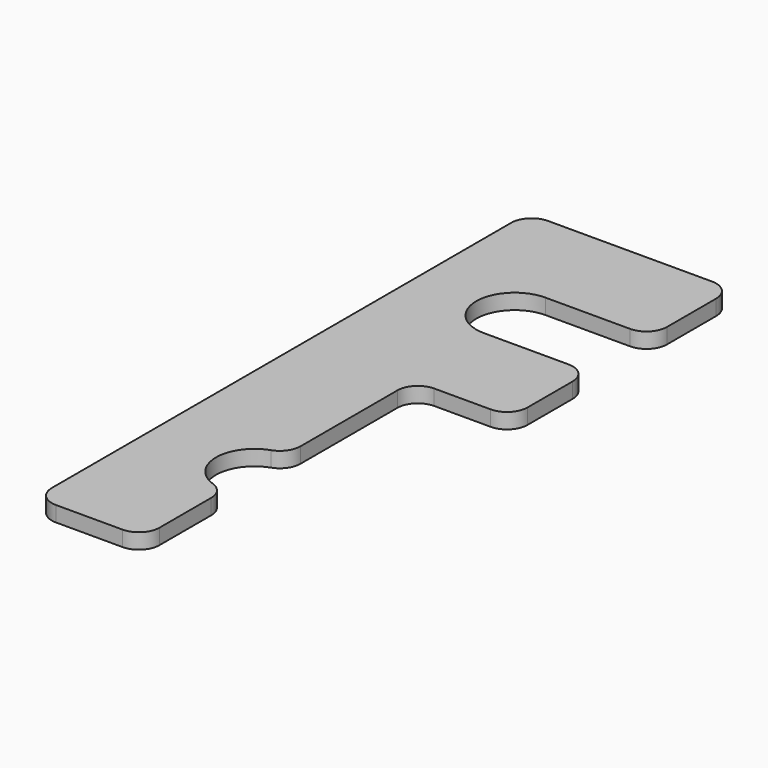
from build123d import *

# Parameters (mm, degrees)
F1_DEPTH = 3.81
F2_W     = 23.2185392497
F2_H     = 19.05
F3_DEPTH = 25.4
F4_R     = 5.08


with BuildPart() as f1:
    # F0 (on Top) → F1 (new body)
    with BuildSketch(Plane.XY):
        with BuildLine():
            Line((18.5659871323, 88.1776532905), (-32.2340128677, 88.1776532905))
            Line((-32.2340128677, 88.1776532905), (-32.2340128677, -64.2223467095))
            Line((-32.2340128677, -64.2223467095), (-5.5640128677, -64.2223467095))
            Line((-5.5640128677, -64.2223467095), (-5.5640128677, -38.8223467095))
            Line((-5.5640128677, -38.8223467095), (-5.9028261468, -38.8223467095))
            ThreePointArc((-5.9028261468, -38.8223467095), (-15.4278261468, -29.2973467095), (-5.9028261468, -19.7723467095))
            Line((-5.9028261468, -19.7723467095), (-5.5640128677, -19.7723467095))
            Line((-5.5640128677, -19.7723467095), (-5.5640128677, 19.5976532905))
            Line((-5.5640128677, 19.5976532905), (18.5659871323, 19.5976532905))
            Line((18.5659871323, 19.5976532905), (18.5659871323, 88.1776532905))
        make_face()
        with BuildLine():
            ThreePointArc((-7.4690128677, 43.7276532905), (-16.9940128677, 53.2526532905), (-7.4690128677, 62.7776532905))
            Line((-7.4690128677, 62.7776532905), (1.4209871323, 62.7776532905))
            ThreePointArc((1.4209871323, 62.7776532905), (10.9459871323, 53.2526532905), (1.4209871323, 43.7276532905))
            Line((1.4209871323, 43.7276532905), (-7.4690128677, 43.7276532905))
        make_face(mode=Mode.SUBTRACT)
    extrude(amount=F1_DEPTH)

    # F2 (on face) → F3 (cut)
    with BuildSketch(Plane.XY.offset(3.81)):
        with Locations((13.0302567572, 53.2526532905)):
            Rectangle(F2_W, F2_H)
    extrude(amount=-F3_DEPTH, mode=Mode.SUBTRACT)

    # F4
    f4_edges = [f1.edges().sort_by_distance(p)[0] for p in [
        (18.565987, 88.177653, 1.905),
        (-32.234013, 88.177653, 1.905),
        (-32.234013, -64.222347, 1.905),
        (-5.564013, -64.222347, 1.905),
        (-5.564013, -19.772347, 1.905),
        (-5.564013, -38.822347, 1.905),
        (18.565987, 19.597653, 1.905),
        (-5.564013, 19.597653, 1.905),
        (18.565987, 43.727653, 1.905),
        (18.565987, 62.777653, 1.905),
    ]]
    fillet(f4_edges, radius=F4_R)


solid = f1.part
